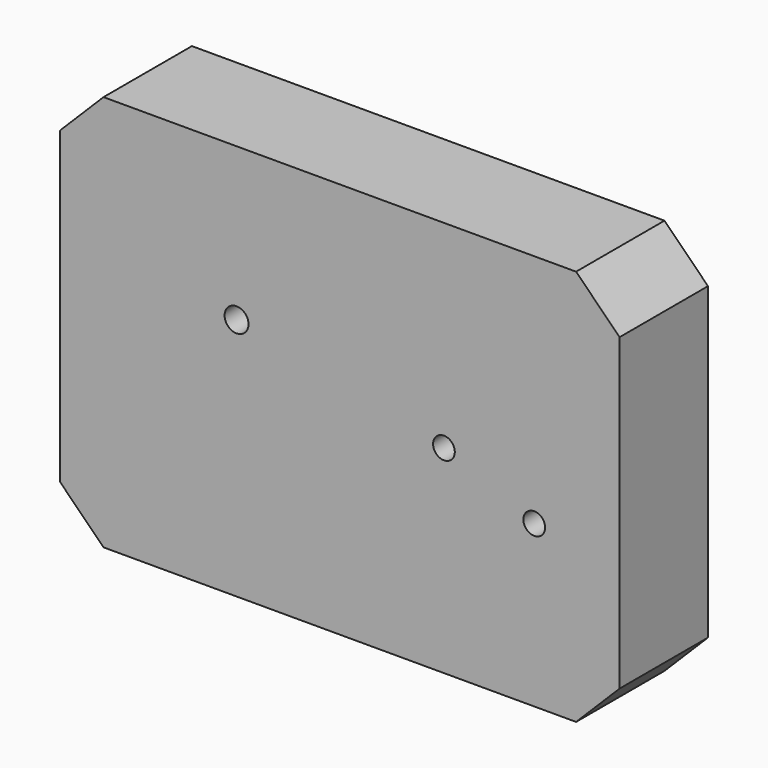
from build123d import *

# Parameters (mm, degrees)
F0_W     = 128.6324560642
F0_H     = 91.1146327853
F1_DEPTH = 25.4
F6_D     = 5
F3_SIZE  = 10
F5_D     = 5.5


with BuildPart() as f1:
    # F0 (on Front) → F1 (new body)
    with BuildSketch(Plane.XZ):
        Rectangle(F0_W, F0_H)
    extrude(amount=F1_DEPTH)

    # F6 (through all)
    with Locations(Plane.XZ.offset(25.4)):
        with Locations((23.9385217428, 0), (44.6983724833, -8.5433870554)):
            Hole(F6_D / 2)

    # F3
    f3_edges = [f1.edges().sort_by_distance(p)[0] for p in [
        (64.316228, -12.7, 45.557316),
        (64.316228, -12.7, -45.557316),
        (-64.316228, -12.7, -45.557316),
        (-64.316228, -12.7, 45.557316),
    ]]
    chamfer(f3_edges, length=F3_SIZE)

    # F5 (through all)
    with Locations(Plane.XZ.offset(25.4)):
        with Locations((-23.7331353128, 10.4352813214)):
            Hole(F5_D / 2)


solid = f1.part
